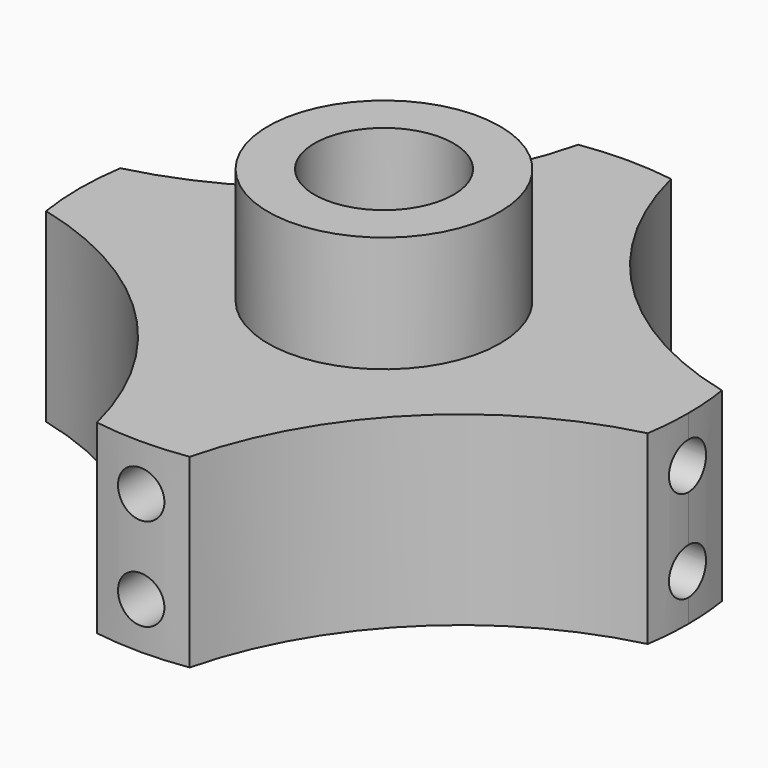
from build123d import *

# Parameters (mm, degrees)
F1_R          = 2
F2_DEPTH      = 8
F3_DEPTH      = 1
F4_R          = 1
F5_DEPTH      = 19
F5_DEPTH_BACK = 25
F6_R          = 1
F7_DEPTH      = 25
F7_DEPTH_BACK = 25
F8_R          = 5
F8_R_2        = 3
F9_DEPTH      = 5


with BuildPart() as f2:
    # F1 (on Top) → F2 (new body)
    with BuildSketch(Plane.XY):
        with BuildLine():
            ThreePointArc((12.9717240566, -2), (13.0866249133, -1.0029323899), (13.125, 0))
            ThreePointArc((13.125, 0), (13.0866249133, 1.0029323899), (12.9717240566, 2))
            ThreePointArc((12.9717240566, 2), (5.9569977933, 5.9569977933), (2, 12.9717240566))
            ThreePointArc((2, 12.9717240566), (0, 13.125), (-2, 12.9717240566))
            ThreePointArc((-2, 12.9717240566), (-5.9569977933, 5.9569977933), (-12.9717240566, 2))
            ThreePointArc((-12.9717240566, 2), (-13.125, 0), (-12.9717240566, -2))
            ThreePointArc((-12.9717240566, -2), (-5.9569977933, -5.9569977933), (-2, -12.9717240566))
            ThreePointArc((-2, -12.9717240566), (0, -13.125), (2, -12.9717240566))
            ThreePointArc((2, -12.9717240566), (5.9569977933, -5.9569977933), (12.9717240566, -2))
        make_face()
        Circle(F1_R, mode=Mode.SUBTRACT)
    extrude(amount=F2_DEPTH)

    # F4 (on Right) → F5 (cut, two sides)
    with BuildSketch(Plane.YZ) as f5_sk:
        with Locations((0, 2)):
            Circle(F4_R)
        with Locations((0, 6)):
            Circle(F4_R)
    extrude(amount=-F5_DEPTH, mode=Mode.SUBTRACT)
    extrude(f5_sk.sketch, amount=F5_DEPTH_BACK, mode=Mode.SUBTRACT)

    # F6 (on Front) → F7 (cut, two sides)
    with BuildSketch(Plane.XZ) as f7_sk:
        with Locations((0, 2)):
            Circle(F6_R)
        with Locations((0, 6)):
            Circle(F6_R)
    extrude(amount=F7_DEPTH, mode=Mode.SUBTRACT)
    extrude(f7_sk.sketch, amount=-F7_DEPTH_BACK, mode=Mode.SUBTRACT)


with BuildPart() as f3:
    # F1 (on Top) → F3 (new body)
    with BuildSketch(Plane.XY):
        Circle(F1_R)
    extrude(amount=F3_DEPTH)


with BuildPart() as f9:
    # F8 (on Top) → F9 (new body)
    with BuildSketch(Plane.XY):
        Circle(F8_R)
        Circle(F8_R_2, mode=Mode.SUBTRACT)
    extrude(amount=F9_DEPTH)


with BuildPart() as f9_1:
    # F10: moved
    add(f9.part.moved(Location((0, 0, 8))))


solid = Compound([f2.part, f3.part, f9_1.part])
